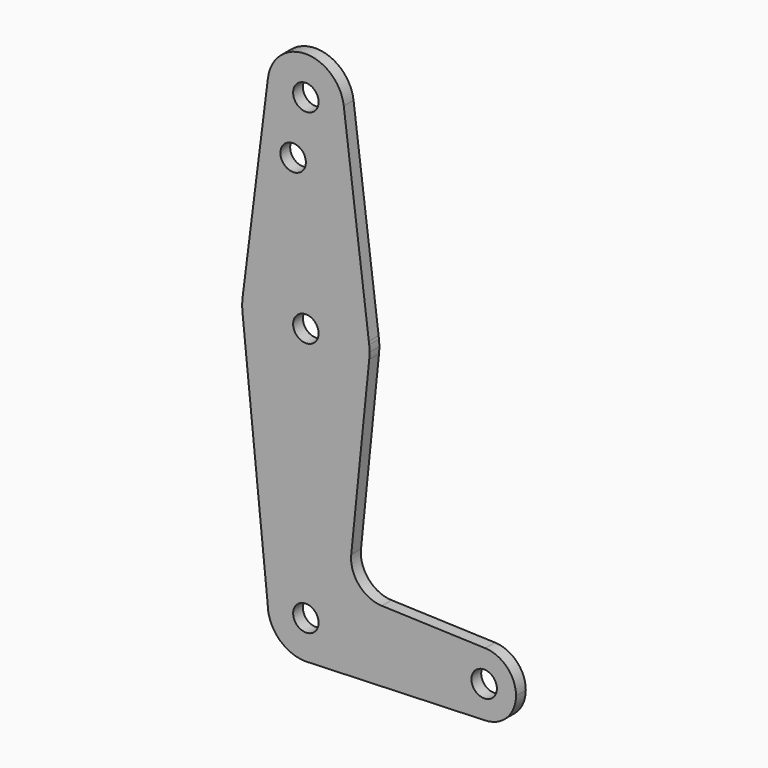
from build123d import *

# Parameters (mm, degrees)
F0_R     = 3.175
F1_DEPTH = 3.048


with BuildPart() as f1:
    # F0 (on Front) → F1 (new body)
    with BuildSketch(Plane.XZ):
        with BuildLine():
            ThreePointArc((-9.450404, 115.489746), (-0.596041, 104.793667), (9.525, 114.3))
            ThreePointArc((9.525, 114.3), (9.506333, 114.896041), (9.450404, 115.489746))
            ThreePointArc((9.450404, 115.489746), (0, 123.825), (-9.450404, 115.489746))
        make_face()
        with Locations((0, 114.3)):
            Circle(F0_R, mode=Mode.SUBTRACT)
        with BuildLine():
            ThreePointArc((9.450404, 115.489746), (9.506333, 114.896041), (9.525, 114.3))
            ThreePointArc((9.525, 114.3), (-0.596041, 104.793667), (-9.450404, 115.489746))
            Line((-9.450404, 115.489746), (-15.697842, 65.86503))
            ThreePointArc((-15.697842, 65.86503), (0, 79.375), (15.697842, 65.86503))
            Line((15.697842, 65.86503), (9.450404, 115.489746))
        make_face()
        with Locations((-3.175, 100.0252)):
            Circle(F0_R, mode=Mode.SUBTRACT)
        with BuildLine():
            Line((15.794203, 65.09962), (15.697842, 65.86503))
            ThreePointArc((15.697842, 65.86503), (0, 79.375), (-15.697842, 65.86503))
            Line((-15.697842, 65.86503), (-15.794203, 65.09962))
            ThreePointArc((-15.794203, 65.09962), (-15.875, 63.5), (-15.794203, 61.90038))
            ThreePointArc((-15.794203, 61.90038), (0, 47.625), (15.794203, 61.90038))
            ThreePointArc((15.794203, 61.90038), (15.854788, 62.699171), (15.875, 63.5))
            ThreePointArc((15.875, 63.5), (15.854788, 64.300829), (15.794203, 65.09962))
        make_face()
        with Locations((0, 63.5)):
            Circle(F0_R, mode=Mode.SUBTRACT)
        with BuildLine():
            ThreePointArc((15.794203, 65.09962), (15.750673, 65.48291), (15.697842, 65.86503))
            Line((15.697842, 65.86503), (15.794203, 65.09962))
        make_face()
        with BuildLine():
            Line((-15.794203, 65.09962), (-15.697842, 65.86503))
            ThreePointArc((-15.697842, 65.86503), (-15.750673, 65.48291), (-15.794203, 65.09962))
        make_face()
        with BuildLine():
            ThreePointArc((15.794203, 61.90038), (0, 47.625), (-15.794203, 61.90038))
            Line((-15.794203, 61.90038), (-9.525, 0))
            ThreePointArc((-9.525, 0), (0, 9.525), (9.525, 0))
            ThreePointArc((9.525, 0), (6.970557, -6.491299), (0.677344, -9.500886))
            Line((0.677344, -9.500886), (44.732405, -7.932475))
            ThreePointArc((44.732405, -7.932475), (36.5125, 0), (44.732405, 7.932475))
            Line((44.732405, 7.932475), (18.934103, 8.850924))
            ThreePointArc((18.934103, 8.850924), (13.224974, 11.57098), (11.307223, 17.59718))
            Line((11.307223, 17.59718), (15.794203, 61.90038))
        make_face()
        with BuildLine():
            ThreePointArc((9.525, 0), (0, 9.525), (-9.525, 0))
            ThreePointArc((-9.525, 0), (-6.735192, -6.735192), (0, -9.525))
            Line((0, -9.525), (0.677344, -9.500886))
            ThreePointArc((0.677344, -9.500886), (6.970557, -6.491299), (9.525, 0))
        make_face()
        Circle(F0_R, mode=Mode.SUBTRACT)
        with BuildLine():
            Line((0.677344, -9.500886), (0, -9.525))
            ThreePointArc((0, -9.525), (0.338886, -9.51897), (0.677344, -9.500886))
        make_face()
        with BuildLine():
            ThreePointArc((52.3875, 0), (50.161633, 5.51191), (44.732405, 7.932475))
            ThreePointArc((44.732405, 7.932475), (36.5125, 0), (44.732405, -7.932475))
            ThreePointArc((44.732405, -7.932475), (50.161633, -5.51191), (52.3875, 0))
        make_face()
        with Locations((44.45, 0)):
            Circle(F0_R, mode=Mode.SUBTRACT)
    extrude(amount=-F1_DEPTH)


solid = f1.part
